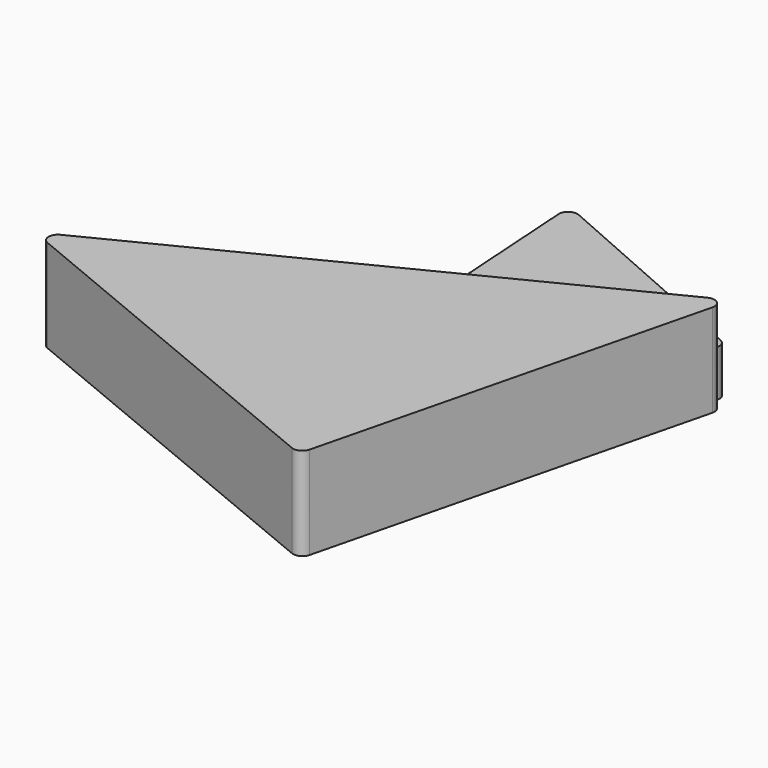
from build123d import *

# Parameters (mm, degrees)
F1_DEPTH = 50
F2_R     = 15
F2_R_2   = 7.5
F3_DEPTH = 11
F5_DEPTH = 25
F6_R     = 15
F6_R_2   = 7.5
F7_DEPTH = 10
F8_R     = 5
F8_2_R   = 5


with BuildPart() as f1:
    # F0 (on Top) → F1 (new body)
    with BuildSketch(Plane.XY):
        Polygon((98.598655, 80.951027), (-169.248063, -54.17164), (43.20677, -142.27921), align=None)
    extrude(amount=F1_DEPTH)

    # F2 (on Top) → F3 (cut)
    with BuildSketch(Plane.XY):
        with Locations((-95.625345, -50.759622)):
            Circle(F2_R)
        with Locations((-76.578173, -80.866444)):
            Circle(F2_R_2)
        with Locations((-134.334114, -53.217325)):
            Circle(F2_R_2)
        with Locations((-38.483825, -22.496073)):
            Circle(F2_R)
        with Locations((-35.411701, -80.866444)):
            Circle(F2_R)
        with Locations((-61.831972, -53.217325)):
            Circle(F2_R_2)
        with Locations((-27.424175, -48.301918)):
            Circle(F2_R_2)
        with Locations((-10.834703, -93.154945)):
            Circle(F2_R_2)
        with Locations((-5.919302, -17.580674)):
            Circle(F2_R_2)
        with Locations((-16.364525, 7.61075)):
            Circle(F2_R_2)
        with Locations((10.055749, -44.000947)):
            Circle(F2_R)
        with Locations((16.81442, -102.985743)):
            Circle(F2_R)
        with Locations((30.331768, -69.806798)):
            Circle(F2_R_2)
        with Locations((44.46355, -17.580674)):
            Circle(F2_R)
        with Locations((19.272124, 17.441551)):
            Circle(F2_R)
        with Locations((60.438588, 34.645449)):
            Circle(F2_R)
        with Locations((59.824175, 6.381901)):
            Circle(F2_R_2)
        with Locations((79.485764, 57.379173)):
            Circle(F2_R_2)
    extrude(amount=F3_DEPTH, mode=Mode.SUBTRACT)

    # F8
    f8_edges = [f1.edges().sort_by_distance(p)[0] for p in [
        (-169.248063, -54.17164, 25),
        (98.598655, 80.951027, 25),
        (43.20677, -142.27921, 25),
    ]]
    fillet(f8_edges, radius=F8_R)


with BuildPart() as f5:
    # F4 (on Top) → F5 (new body)
    with BuildSketch(Plane.XY):
        Polygon((-38.163792, 141.94721), (-30.38691, 21.822616), (97.390942, 82.273573), align=None)
    extrude(amount=F5_DEPTH)

    # F6 (on face) → F7 (cut)
    with BuildSketch(Plane(origin=(0, 0, 0), x_dir=(1, 0, 0), z_dir=(0, 0, -1))):
        with Locations((-11.114415, -56.851632)):
            Circle(F6_R)
        with Locations((23.744311, -69.995083)):
            Circle(F6_R_2)
        with Locations((49.459764, -81.995627)):
            Circle(F6_R)
        with Locations((17.458309, -97.996358)):
            Circle(F6_R_2)
        with Locations((-12.257317, -97.424898)):
            Circle(F6_R)
    extrude(amount=-F7_DEPTH, mode=Mode.SUBTRACT)

    # F8#2
    f8_2_edges = [f5.edges().sort_by_distance(p)[0] for p in [
        (-38.163792, 141.94721, 12.5),
        (97.390942, 82.273573, 12.5),
        (-30.38691, 21.822616, 12.5),
    ]]
    fillet(f8_2_edges, radius=F8_2_R)


solid = Compound([f1.part, f5.part])
